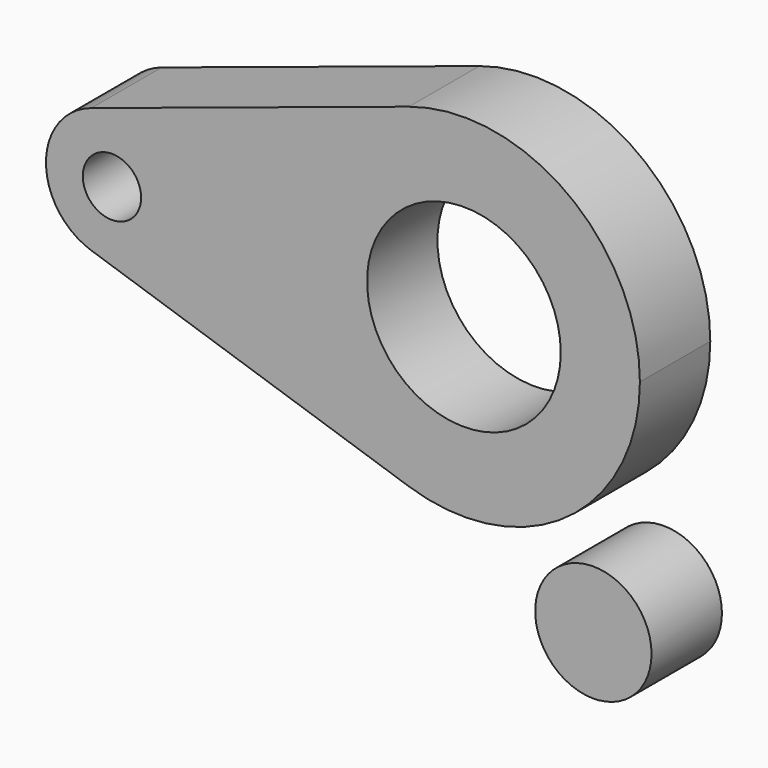
from build123d import *

# Parameters (mm, degrees)
F1_R     = 16.793149
F2_DEPTH = 25.4
F0_R     = 27.954937
F0_R_2   = 8.415147
F3_DEPTH = 12.7


with BuildPart() as f2:
    # F1 (on Front) → F2 (new body)
    with BuildSketch(Plane.XZ):
        with Locations((47.525447, -59.579577)):
            Circle(F1_R)
    extrude(amount=F2_DEPTH)


with BuildPart() as f3:
    # F0 (on Front) → F3 (new body, symmetric)
    with BuildSketch(Plane.XZ):
        with BuildLine():
            ThreePointArc((-15.875, -48.255822), (29.78414, -41.152703), (50.8, 0))
            ThreePointArc((50.8, 0), (29.78414, 41.152703), (-15.875, 48.255822))
            ThreePointArc((-15.875, 48.255822), (-50.8, 0), (-15.875, -48.255822))
        make_face()
        Circle(F0_R, mode=Mode.SUBTRACT)
        with BuildLine():
            ThreePointArc((-15.875, -48.255822), (-50.8, 0), (-15.875, 48.255822))
            Line((-15.875, 48.255822), (-107.553125, 18.095933))
            ThreePointArc((-107.553125, 18.095933), (-90.430947, 15.432264), (-82.55, 0))
            ThreePointArc((-82.55, 0), (-90.430947, -15.432264), (-107.553125, -18.095933))
            Line((-107.553125, -18.095933), (-15.875, -48.255822))
        make_face()
        with BuildLine():
            ThreePointArc((-82.55, 0), (-90.430947, 15.432264), (-107.553125, 18.095933))
            ThreePointArc((-107.553125, 18.095933), (-120.65, 0), (-107.553125, -18.095933))
            ThreePointArc((-107.553125, -18.095933), (-90.430947, -15.432264), (-82.55, 0))
        make_face()
        with Locations((-101.6, 0)):
            Circle(F0_R_2, mode=Mode.SUBTRACT)
    extrude(amount=F3_DEPTH, both=True)


solid = Compound([f2.part, f3.part])
